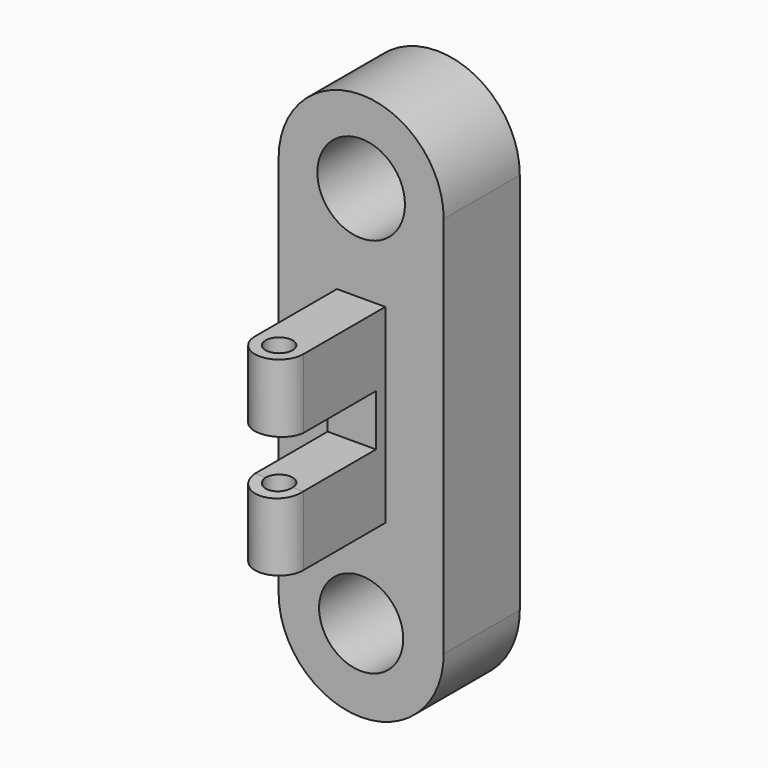
from build123d import *

# Parameters (mm, degrees)
F0_R          = 11.2285119967
F0_R_2        = 11.6991288981
F2_DEPTH      = 25.4
F1_R          = 11.2285119967
F1_W          = 27.0559564233
F1_H          = 62.3726062477
F1_R_2        = 11.6991288981
F4_DEPTH      = 25.4
F4_DEPTH_BACK = 25.4
F6_DEPTH      = 25.4


with BuildPart() as f2:
    # F0 (on Front) → F2 (new body)
    with BuildSketch(Plane.XZ):
        with BuildLine():
            Line((22.0485366881, -51.1352419853), (22.0485366881, 51.1352419853))
            ThreePointArc((22.0485366881, 51.1352419853), (0, 73.1837786734), (-22.0485366881, 51.1352419853))
            Line((-22.0485366881, 51.1352419853), (-22.0485366881, -51.1352419853))
            ThreePointArc((-22.0485366881, -51.1352419853), (0, -73.1837786734), (22.0485366881, -51.1352419853))
        make_face()
        with Locations((0, -51.1352419853)):
            Circle(F0_R, mode=Mode.SUBTRACT)
        with Locations((0, 51.1352419853)):
            Circle(F0_R_2, mode=Mode.SUBTRACT)
    extrude(amount=F2_DEPTH)


with BuildPart() as f2b:
    # F1 (on face) → F2, piece 2 (new body)
    with BuildSketch(Plane.XZ):
        with BuildLine():
            ThreePointArc((-22.0485366881, -51.1352419853), (0, -73.1837786734), (22.0485366881, -51.1352419853))
            Line((22.0485366881, -51.1352419853), (22.0485366881, 51.1352419853))
            ThreePointArc((22.0485366881, 51.1352419853), (0, 73.1837786734), (-22.0485366881, 51.1352419853))
            Line((-22.0485366881, 51.1352419853), (-22.0485366881, -51.1352419853))
        make_face()
        with Locations((0, -51.1352419853)):
            Circle(F1_R, mode=Mode.SUBTRACT)
        Rectangle(F1_W, F1_H, mode=Mode.SUBTRACT)
        with Locations((0, 51.1352419853)):
            Circle(F1_R_2, mode=Mode.SUBTRACT)
        Rectangle(F1_W, F1_H)
    extrude(amount=F2_DEPTH)


with BuildPart() as f4:
    # F3 (on Top) → F4 (new body, two sides)
    with BuildSketch(Plane.XY) as f4_sk:
        with BuildLine():
            ThreePointArc((-6.4498633146, -52.7917817235), (0, -46.3419184089), (6.4498633146, -52.7917817235))
            Line((6.4498633146, -52.7917817235), (6.4498633146, -21.6856226325))
            Line((6.4498633146, -21.6856226325), (-6.4498633146, -21.6856226325))
            Line((-6.4498633146, -21.6856226325), (-6.4498633146, -52.7917817235))
        make_face()
        with BuildLine():
            Line((3.6005880685, -52.7917817235), (6.4498633146, -52.7917817235))
            ThreePointArc((6.4498633146, -52.7917817235), (0, -46.3419184089), (-6.4498633146, -52.7917817235))
            Line((-6.4498633146, -52.7917817235), (-3.6005880685, -52.7917817235))
            ThreePointArc((-3.6005880685, -52.7917817235), (0, -49.191193655), (3.6005880685, -52.7917817235))
        make_face()
        with BuildLine():
            ThreePointArc((-6.4498633146, -52.7917817235), (0, -59.2416450381), (6.4498633146, -52.7917817235))
            Line((6.4498633146, -52.7917817235), (3.6005880685, -52.7917817235))
            ThreePointArc((3.6005880685, -52.7917817235), (0, -56.392369792), (-3.6005880685, -52.7917817235))
            Line((-3.6005880685, -52.7917817235), (-6.4498633146, -52.7917817235))
        make_face()
    extrude(amount=F4_DEPTH)
    extrude(f4_sk.sketch, amount=-F4_DEPTH_BACK)

    # F5 (on face) → F6 (cut)
    with BuildSketch(Plane.YZ.offset(6.4498633146)):
        with BuildLine():
            ThreePointArc((-45.9284381941, 0), (-47.9386649722, 4.8531167513), (-52.7917817235, 6.8633435294))
            Line((-52.7917817235, 6.8633435294), (-52.7917817235, -6.8633435294))
            ThreePointArc((-52.7917817235, -6.8633435294), (-47.9386649722, -4.8531167513), (-45.9284381941, 0))
        make_face()
        with BuildLine():
            Line((-28.5119712353, 6.8633435294), (-52.7917817235, 6.8633435294))
            ThreePointArc((-52.7917817235, 6.8633435294), (-47.9386649722, 4.8531167513), (-45.9284381941, 0))
            ThreePointArc((-45.9284381941, 0), (-47.9386649722, -4.8531167513), (-52.7917817235, -6.8633435294))
            Line((-52.7917817235, -6.8633435294), (-28.5119712353, -6.8633435294))
            Line((-28.5119712353, -6.8633435294), (-28.5119712353, 6.8633435294))
        make_face()
        with BuildLine():
            Line((-52.7917817235, -6.8633435294), (-52.7917817235, 6.8633435294))
            ThreePointArc((-52.7917817235, 6.8633435294), (-57.6448984748, 4.8531167513), (-59.6551252529, 0))
            ThreePointArc((-59.6551252529, 0), (-57.6448984748, -4.8531167513), (-52.7917817235, -6.8633435294))
        make_face()
        with BuildLine():
            ThreePointArc((-59.6551252529, 0), (-57.6448984748, 4.8531167513), (-52.7917817235, 6.8633435294))
            Line((-52.7917817235, 6.8633435294), (-59.6551252529, 7.3378272355))
            Line((-59.6551252529, 7.3378272355), (-59.6551252529, 0))
        make_face()
        with BuildLine():
            Line((-59.6551252529, -7.3713026941), (-52.7917817235, -6.8633435294))
            ThreePointArc((-52.7917817235, -6.8633435294), (-57.6448984748, -4.8531167513), (-59.6551252529, 0))
            Line((-59.6551252529, 0), (-59.6551252529, -7.3713026941))
        make_face()
    extrude(amount=-F6_DEPTH, mode=Mode.SUBTRACT)


solid = Compound([f2.part, f2b.part, f4.part])
